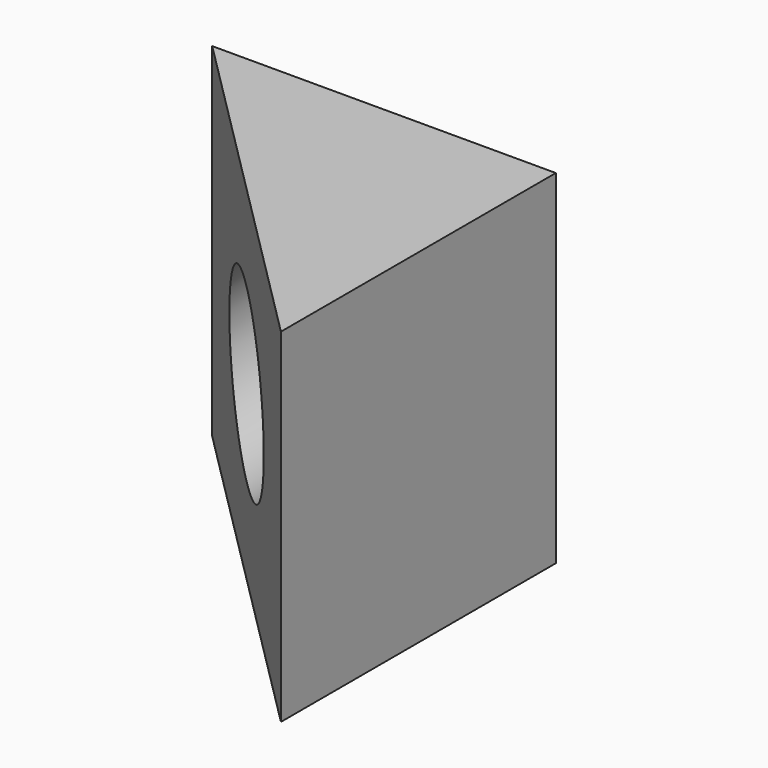
from build123d import *

# Parameters (mm, degrees)
F0_W     = 42.8752
F0_H     = 42.8752
F0_R     = 10.7188
F1_DEPTH = 42.8752
F3_DEPTH = 42.8752


with BuildPart() as f1:
    # F0 (on Front) → F1 (new body)
    with BuildSketch(Plane.XZ):
        Rectangle(F0_W, F0_H)
        Circle(F0_R, mode=Mode.SUBTRACT)
    extrude(amount=F1_DEPTH)

    # F2 (on face) → F3 (cut)
    with BuildSketch(Plane.XY.offset(21.4376)):
        Polygon((21.4376, -42.8752), (-21.4376, 0), (-21.4376, -42.8752), align=None)
    extrude(amount=-F3_DEPTH, mode=Mode.SUBTRACT)


solid = f1.part
